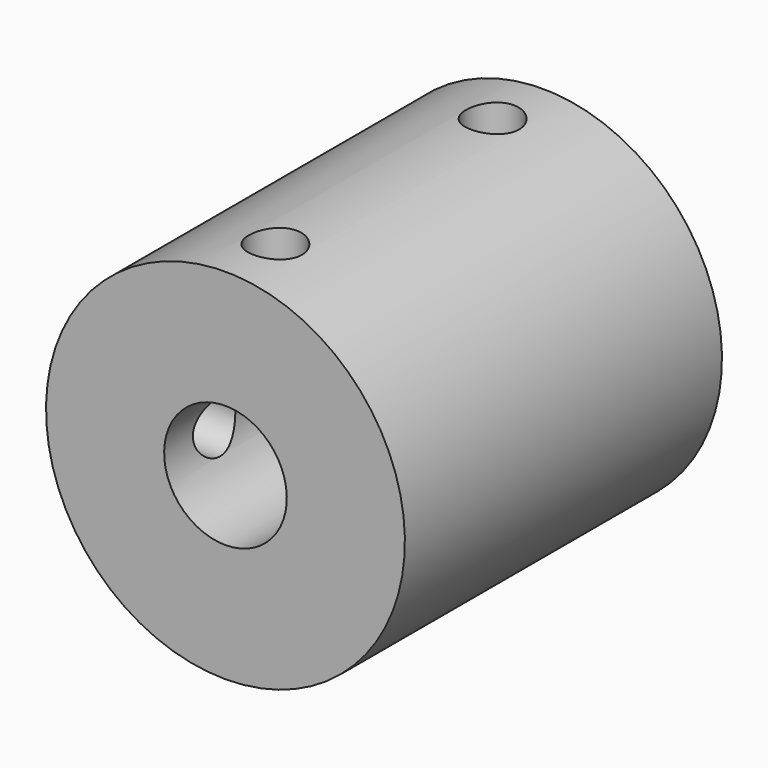
from build123d import *

# Parameters (mm, degrees)
SKETCH_R                 = 11.5
SKETCH_R_2               = 3.93
PAD_DEPTH                = 25.4
SKETCH001_R              = 4.9
POCKET_DEPTH             = 12.7
SKETCH002_R              = 1.7
POCKET001_DEPTH          = 11.501
SKETCH003_R              = 1.7
POCKET002_DEPTH          = 11.501
CLONE002_PITCH_ANGLE     = 90
CLONE002_PLACEMENT_ANGLE = 90


with BuildPart() as part:
    # Sketch → Pad (new body)
    with BuildSketch(Plane.XY):
        Circle(SKETCH_R)
        Circle(SKETCH_R_2, mode=Mode.SUBTRACT)
    extrude(amount=PAD_DEPTH)

    # Sketch001 (on Face4 of Pad) → Pocket (cut)
    with BuildSketch(Plane.XY.offset(25.4)):
        Circle(SKETCH001_R)
    extrude(amount=-POCKET_DEPTH, mode=Mode.SUBTRACT)

    # Sketch002 → Pocket001 (cut, through all)
    with BuildSketch(Plane.XZ):
        with Locations((0, 4)):
            Circle(SKETCH002_R)
        with Locations((0, 21.4)):
            Circle(SKETCH002_R)
    extrude(amount=-POCKET001_DEPTH, mode=Mode.SUBTRACT)

    # Sketch003 → Pocket002 (cut, through all)
    with BuildSketch(Plane.YZ):
        with Locations((0, 4)):
            Circle(SKETCH003_R)
        with Locations((0, 21.4)):
            Circle(SKETCH003_R)
    extrude(amount=-POCKET002_DEPTH, mode=Mode.SUBTRACT)


with BuildPart() as part_1:
    # Clone002 pitch: moved
    add(part.part.rotate(Axis((0, 0, 0), (0, 1, 0)), CLONE002_PITCH_ANGLE))


with BuildPart() as part_2:
    # Clone002 placement: moved
    add(part_1.part.moved(Location((0, -4, -11.5))).rotate(Axis((0, -4, -11.5), (0, 0, 1)), CLONE002_PLACEMENT_ANGLE))


solid = part_2.part
